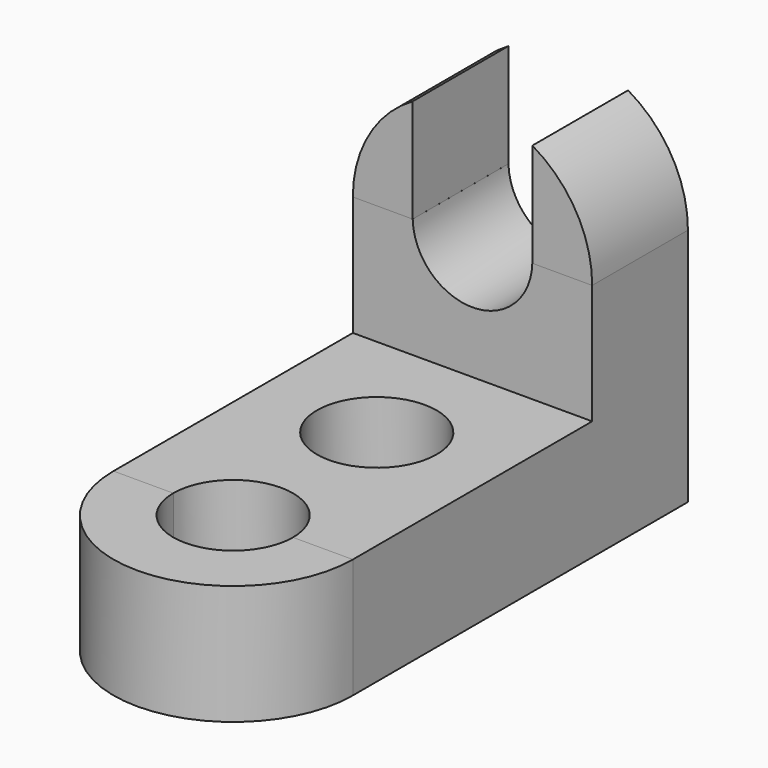
from build123d import *

# Parameters (mm, degrees)
F1_DEPTH  = 25.4
F3_DEPTH  = 12.7
F4_R      = 6.35
F5_DEPTH  = 12.7
F7_DEPTH  = 12.7
F9_DEPTH  = 12.7
F10_W     = 12.7
F10_H     = 6.35
F11_DEPTH = 12.7
F12_W     = 12.7
F12_H     = 6.35
F13_DEPTH = 12.7
F15_DEPTH = 12.7
F16_W     = 12.7
F16_H     = 14.8796178133
F17_DEPTH = 12.7


with BuildPart() as f1:
    # F0 (on Right) → F1 (new body)
    with BuildSketch(Plane.YZ):
        Polygon((62.0261926534, 32.6354817479), (62.0261926534, 58.0354817479), (49.3261926534, 58.0354817479), (49.3261926534, 45.3354817479), (17.5761926534, 45.3354817479), (17.5761926534, 32.6354817479), align=None)
    extrude(amount=F1_DEPTH)

    # F4 (on face) → F5 (cut)
    with BuildSketch(Plane.XY.offset(45.3354817479)):
        with Locations((12.7, 36.6261926534)):
            Circle(F4_R)
        with BuildLine():
            Line((6.35, 17.5761926534), (19.05, 17.5761926534))
            ThreePointArc((19.05, 17.5761926534), (12.7, 23.9261926534), (6.35, 17.5761926534))
        make_face()
    extrude(amount=-F5_DEPTH, mode=Mode.SUBTRACT)

    # F8 (on face) → F9 (cut)
    with BuildSketch(Plane.XZ.offset(-49.3261926534)):
        with BuildLine():
            Line((19.0478422263, 58.0354817479), (6.3521577737, 58.0354817479))
            ThreePointArc((6.3521577737, 58.0354817479), (12.7, 51.8510083924), (19.0478422263, 58.0354817479))
        make_face()
    extrude(amount=-F9_DEPTH, mode=Mode.SUBTRACT)

    # F10 (on Front) → F11 (cut)
    with BuildSketch(Plane.XZ):
        with Locations((12.7, 61.1516664074)):
            Rectangle(F10_W, F10_H)
    extrude(amount=-F11_DEPTH, mode=Mode.SUBTRACT)

    # F12 (on Front) → F13 (cut)
    with BuildSketch(Plane.XZ):
        with Locations((12.7, 61.4645087423)):
            Rectangle(F12_W, F12_H)
    extrude(amount=-F13_DEPTH, mode=Mode.SUBTRACT)


with BuildPart() as f3:
    # F2 (on face) → F3 (new body)
    with BuildSketch(Plane.XY.offset(45.3354817479)):
        with BuildLine():
            Line((25.4, 17.5761926534), (0, 17.5761926534))
            ThreePointArc((0, 17.5761926534), (12.7, 4.8761926534), (25.4, 17.5761926534))
        make_face()
    extrude(amount=-F3_DEPTH)

    # F6 (on face) → F7 (cut)
    with BuildSketch(Plane.XY.offset(45.3354817479)):
        with BuildLine():
            ThreePointArc((6.35, 17.5761926534), (12.7, 11.2261926534), (19.05, 17.5761926534))
            Line((19.05, 17.5761926534), (6.35, 17.5761926534))
        make_face()
    extrude(amount=-F7_DEPTH, mode=Mode.SUBTRACT)


with BuildPart() as f15:
    # F14 (on face) → F15 (new body)
    with BuildSketch(Plane.XZ.offset(-49.3261926534)):
        with BuildLine():
            Line((0, 58.0354817479), (25.4, 58.0354817479))
            ThreePointArc((25.4, 58.0354817479), (12.7, 70.7354817479), (0, 58.0354817479))
        make_face()
    extrude(amount=-F15_DEPTH)

    # F16 (on face) → F17 (cut)
    with BuildSketch(Plane.XZ.offset(-49.3261926534)):
        with Locations((12.7, 65.4752906545)):
            Rectangle(F16_W, F16_H)
    extrude(amount=-F17_DEPTH, mode=Mode.SUBTRACT)


solid = Compound([f1.part, f3.part, f15.part])
